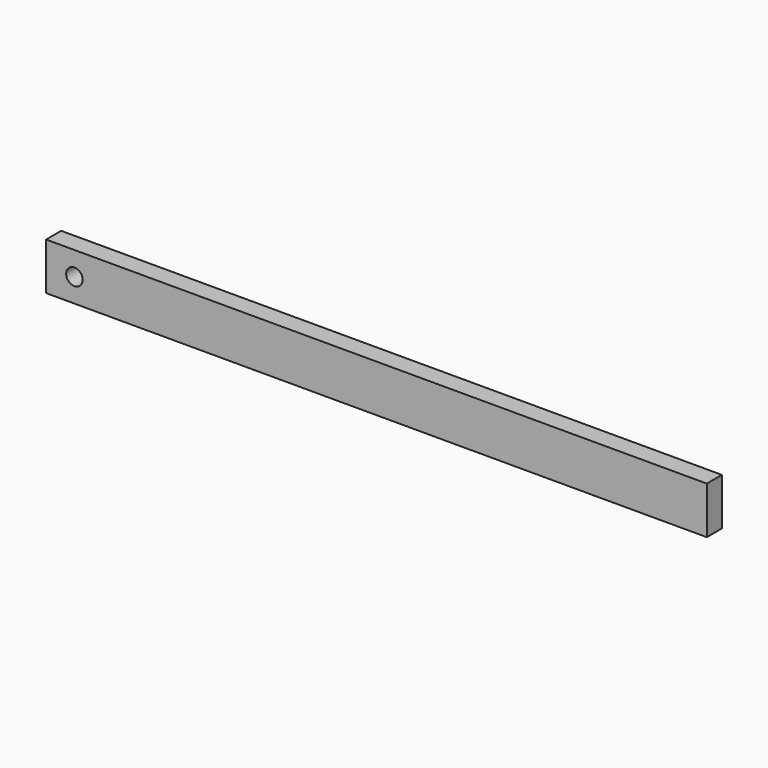
from build123d import *

# Parameters (mm, degrees)
F0_W     = 140
F0_H     = 10
F1_DEPTH = 4
F2_R     = 1.75
F3_DEPTH = 4.001


with BuildPart() as f1:
    # F0 (on Front) → F1 (new body)
    with BuildSketch(Plane.XZ):
        Rectangle(F0_W, F0_H)
    extrude(amount=F1_DEPTH)

    # F2 (on Front) → F3 (cut, through all)
    with BuildSketch(Plane.XZ):
        with Locations((-64, 0)):
            Circle(F2_R)
    extrude(amount=F3_DEPTH, mode=Mode.SUBTRACT)


solid = f1.part
